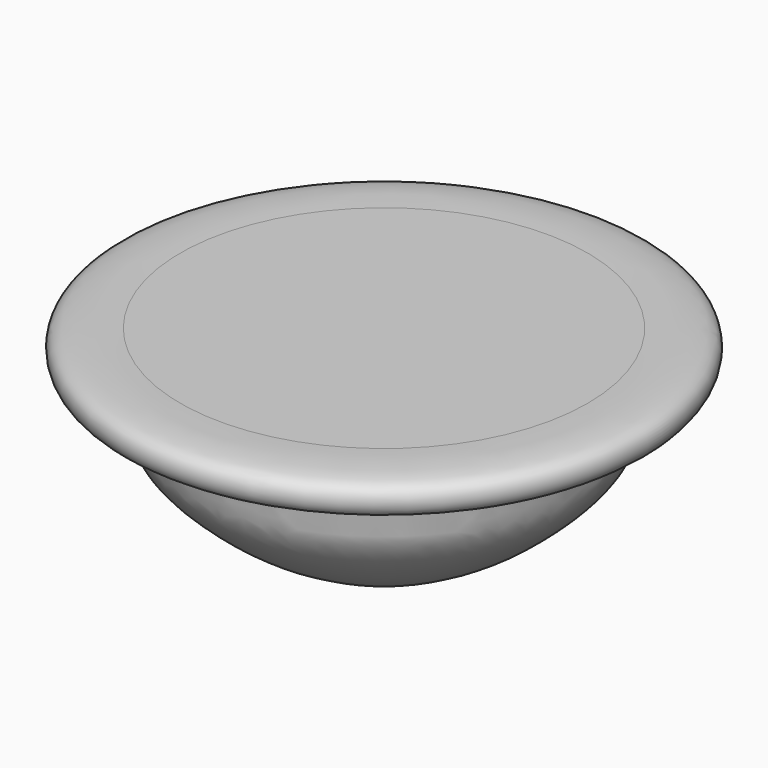
from build123d import *


with BuildPart() as f1:
    # F0 (on Front) → F1 (revolve)
    with BuildSketch(Plane.XZ):
        with BuildLine():
            Line((0, 65), (0, 0))
            Line((0, 0), (21, 0))
            add(Edge.make_bspline(
                [(21, 0), (27.2411511158, 3.3737147043), (41.1511641786, 9.7945397523), (56.7346025379, 22.4521567681), (69.389049342, 36.0217424716), (66.9308147157, 56.9630973316), (87.4180552336, 51.0405042964), (89.2994914633, 63.5283080022), (79.2576831664, 65.232588367), (71.9384974723, 65.186313519), (68, 65)],
                knots=[0, 0, 0, 0, 0.155969674, 0.304868862, 0.4459926439, 0.5747433995, 0.7011035122, 0.7911500649, 0.8864031882, 1, 1, 1, 1], degree=3))
            Line((68, 65), (0, 65))
        make_face()
    revolve(axis=Axis((0, 0, 32.5), (0, 0, -1)))


solid = f1.part
